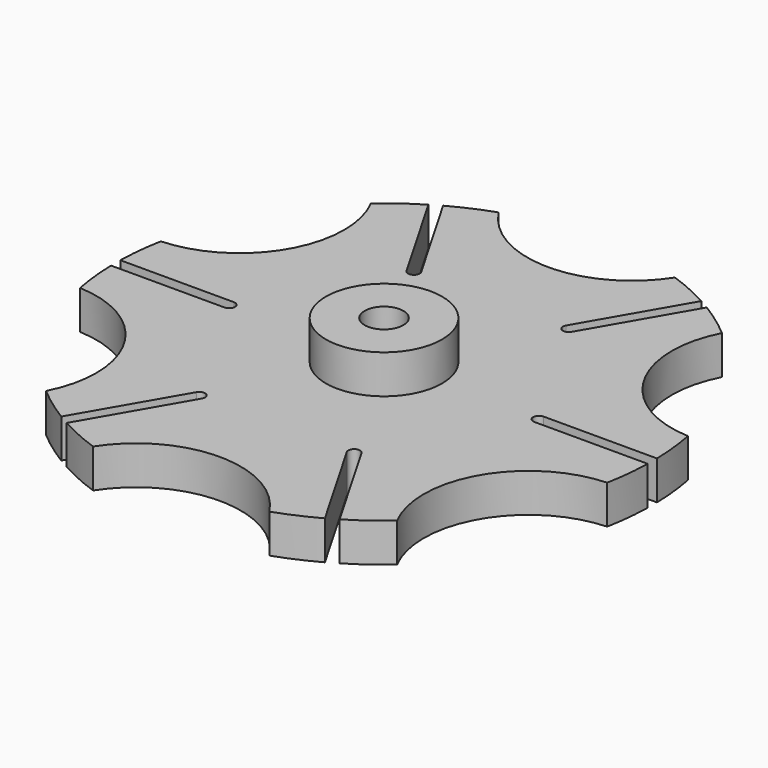
from build123d import *

# Parameters (mm, degrees)
F1_DEPTH = 12.7
F2_R     = 19.05
F2_R_2   = 6.35
F3_DEPTH = 12.7


with BuildPart() as f1:
    # F0 (on Top) → F1 (new body)
    with BuildSketch(Plane.XY):
        with BuildLine():
            Line((84.6886242361, 1.905), (0, 50.8))
            Line((0, 50.8), (0, 6.35))
            ThreePointArc((0, 6.35), (4.4901280605, 4.4901280605), (6.35, 0))
            Line((6.35, 0), (48.8949902245, 0))
            ThreePointArc((48.8949902245, 0), (49.4529518063, 1.3470384182), (50.7999902245, 1.905))
            Line((50.7999902245, 1.905), (84.6886242361, 1.905))
        make_face()
        with BuildLine():
            Line((0, 6.35), (0, 50.8))
            Line((0, 50.8), (84.6886242361, 1.905))
            Line((84.6886242361, 1.905), (87.9675563773, 1.905))
            ThreePointArc((87.9675563773, 1.905), (87.4997755074, 9.2579309865), (86.4184680247, 16.545947669))
            ThreePointArc((86.4184680247, 16.545947669), (58.2921699287, 33.655), (57.5384450233, 66.567614831))
            ThreePointArc((57.5384450234, 66.567614831), (51.7674911745, 71.1480629216), (45.6335565829, 75.2296385316))
            Line((45.6335565829, 75.2296385316), (27.0394611829, 43.023720578))
            ThreePointArc((27.0394611829, 43.023720578), (24.4371827887, 42.3264421838), (23.7399043945, 44.928720578))
            Line((23.7399043945, 44.928720578), (42.3339997945, 77.1346385316))
            ThreePointArc((42.3339997945, 77.1346385316), (35.7322843329, 80.4059939081), (28.8800230014, 83.1135625))
            ThreePointArc((28.8800230014, 83.1135625), (0, 67.31), (-28.8800230014, 83.1135625))
            ThreePointArc((-28.8800230014, 83.1135625), (-35.7322843329, 80.4059939081), (-42.3339997945, 77.1346385316))
            Line((-42.3339997945, 77.1346385316), (-23.7399043945, 44.928720578))
            ThreePointArc((-23.7399043945, 44.928720578), (-24.4371827887, 42.3264421838), (-27.0394611829, 43.023720578))
            Line((-27.0394611829, 43.023720578), (-45.6335565829, 75.2296385316))
            ThreePointArc((-45.6335565829, 75.2296385316), (-51.7674911745, 71.1480629216), (-57.5384450234, 66.567614831))
            ThreePointArc((-57.5384450233, 66.567614831), (-54.6720772046, 58.9142668344), (-53.6981810245, 50.8))
            ThreePointArc((-53.6981810245, 50.8), (-63.1927221785, 27.1147868783), (-86.4184680247, 16.545947669))
            ThreePointArc((-86.4184680247, 16.545947669), (-87.4997755074, 9.2579309865), (-87.9675563773, 1.905))
            Line((-87.9675563773, 1.905), (-50.7793655773, 1.905))
            ThreePointArc((-50.7793655773, 1.905), (-48.8743655773, 0), (-50.7793655773, -1.905))
            Line((-50.7793655773, -1.905), (-87.9675563773, -1.905))
            ThreePointArc((-87.9675563773, -1.905), (-87.4997755074, -9.2579309865), (-86.4184680247, -16.545947669))
            ThreePointArc((-86.4184680247, -16.545947669), (-63.1927221785, -27.1147868783), (-53.6981810245, -50.8))
            ThreePointArc((-53.6981810245, -50.8), (-54.6720772046, -58.9142668344), (-57.5384450233, -66.567614831))
            ThreePointArc((-57.5384450234, -66.567614831), (-51.7674911745, -71.1480629216), (-45.6335565829, -75.2296385316))
            Line((-45.6335565829, -75.2296385316), (-27.0394611829, -43.023720578))
            ThreePointArc((-27.0394611829, -43.023720578), (-24.4371827887, -42.3264421838), (-23.7399043945, -44.928720578))
            Line((-23.7399043945, -44.928720578), (-42.3339997945, -77.1346385316))
            ThreePointArc((-42.3339997945, -77.1346385316), (-35.7322843329, -80.4059939081), (-28.8800230014, -83.1135625))
            ThreePointArc((-28.8800230014, -83.1135625), (0, -67.31), (28.8800230014, -83.1135625))
            ThreePointArc((28.8800230014, -83.1135625), (35.7322843329, -80.4059939081), (42.3339997945, -77.1346385316))
            Line((42.3339997945, -77.1346385316), (23.7399043945, -44.928720578))
            ThreePointArc((23.7399043945, -44.928720578), (24.4371827887, -42.3264421838), (27.0394611829, -43.023720578))
            Line((27.0394611829, -43.023720578), (45.6335565829, -75.2296385316))
            ThreePointArc((45.6335565829, -75.2296385316), (51.7674911745, -71.1480629216), (57.5384450234, -66.567614831))
            ThreePointArc((57.5384450233, -66.567614831), (58.2921699287, -33.655), (86.4184680247, -16.545947669))
            ThreePointArc((86.4184680247, -16.545947669), (87.4997755074, -9.2579309865), (87.9675563773, -1.905))
            Line((87.9675563773, -1.905), (50.7999902245, -1.905))
            ThreePointArc((50.7999902245, -1.905), (49.4529518063, -1.3470384182), (48.8949902245, 0))
            Line((48.8949902245, 0), (6.35, 0))
            ThreePointArc((6.35, 0), (-4.4901280605, -4.4901280605), (0, 6.35))
        make_face()
    extrude(amount=F1_DEPTH)

    # F2 (on face) → F3 (join)
    with BuildSketch(Plane.XY.offset(12.7)):
        Circle(F2_R)
        Circle(F2_R_2, mode=Mode.SUBTRACT)
    extrude(amount=F3_DEPTH)


solid = f1.part
